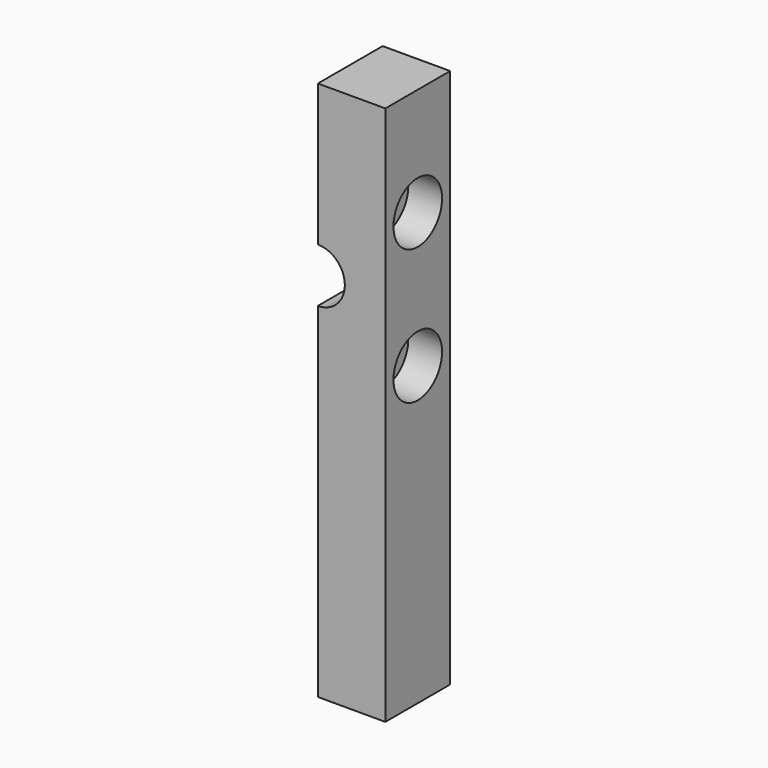
from build123d import *

# Parameters (mm, degrees)
CYLINDER010_R     = 4
CYLINDER010_DEPTH = 12
CYLINDER006_R     = 4.5
CYLINDER006_DEPTH = 5
CYLINDER005_R     = 2.5
CYLINDER005_DEPTH = 5
CYLINDER012_R     = 4.5
CYLINDER012_DEPTH = 5
CYLINDER011_R     = 2.5
CYLINDER011_DEPTH = 5
BOX_W             = 10
BOX_H             = 12
BOX_DEPTH         = 80


with BuildPart() as cylinder010:
    # Cylinder010 → Cylinder010 (new body)
    with BuildSketch(Plane(origin=(32, 12, 55), x_dir=(1, 0, 0), z_dir=(0, -1, 0))):
        Circle(CYLINDER010_R)
    extrude(amount=CYLINDER010_DEPTH)


with BuildPart() as cylinder006:
    # Cylinder006 → Cylinder006 (new body)
    with BuildSketch(Plane(origin=(37, 5, 55), x_dir=(0, 0, -1), z_dir=(1, 0, 0))):
        Circle(CYLINDER006_R)
    extrude(amount=CYLINDER006_DEPTH)


with BuildPart() as obj1:
    # Cylinder005 → Cylinder005 (new body)
    with BuildSketch(Plane(origin=(32, 5, 55), x_dir=(0, 0, -1), z_dir=(1, 0, 0))):
        Circle(CYLINDER005_R)
    extrude(amount=CYLINDER005_DEPTH)

    # Fusion003: union Cylinder006
    add(cylinder006.part)


with BuildPart() as obj1_1:
    # Fusion003 placement: moved
    add(obj1.part.moved(Location((0, 1, 9))))


with BuildPart() as cylinder012:
    # Cylinder012 → Cylinder012 (new body)
    with BuildSketch(Plane(origin=(37, 5, 55), x_dir=(0, 0, -1), z_dir=(1, 0, 0))):
        Circle(CYLINDER012_R)
    extrude(amount=CYLINDER012_DEPTH)


with BuildPart() as screwholes:
    # Cylinder011 → Cylinder011 (new body)
    with BuildSketch(Plane(origin=(32, 5, 55), x_dir=(0, 0, -1), z_dir=(1, 0, 0))):
        Circle(CYLINDER011_R)
    extrude(amount=CYLINDER011_DEPTH)

    # Fusion004: union Cylinder012
    add(cylinder012.part)


with BuildPart() as screwholes_1:
    # Fusion004 placement: moved
    add(screwholes.part.moved(Location((0, 1, -11))))

    # Fusion005: union obj1
    add(obj1_1.part)


with BuildPart() as obj2:
    # Box → Box (new body)
    with BuildSketch(Plane(origin=(32, 0, 0), x_dir=(1, 0, 0), z_dir=(0, 0, 1))):
        with Locations((5, 6)):
            Rectangle(BOX_W, BOX_H)
    extrude(amount=BOX_DEPTH)

    # Cut: cut ScrewHoles
    add(screwholes_1.part, mode=Mode.SUBTRACT)

    # Cut007: cut Cylinder010
    add(cylinder010.part, mode=Mode.SUBTRACT)


solid = obj2.part
